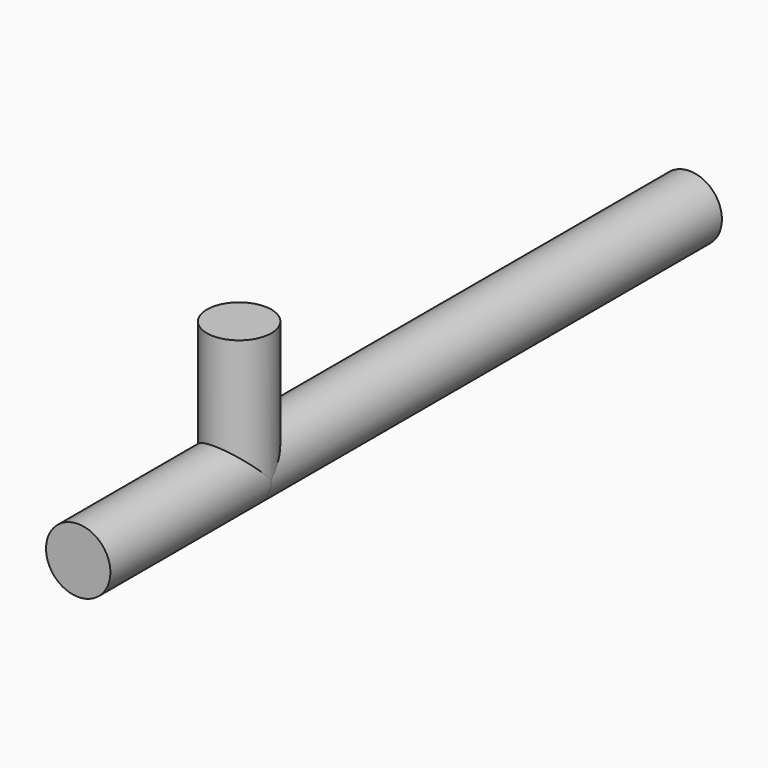
from build123d import *

# Parameters (mm, degrees)
F0_R          = 40
F1_DEPTH      = 700
F1_DEPTH_BACK = 250
F2_R          = 40
F3_DEPTH      = 160


with BuildPart() as f1:
    # F0 (on Front) → F1 (new body, two sides)
    with BuildSketch(Plane.XZ) as f1_sk:
        Circle(F0_R)
    extrude(amount=-F1_DEPTH)
    extrude(f1_sk.sketch, amount=F1_DEPTH_BACK)

    # F2 (on Top) → F3 (join)
    with BuildSketch(Plane.XY):
        Circle(F2_R)
    extrude(amount=F3_DEPTH)


solid = f1.part
